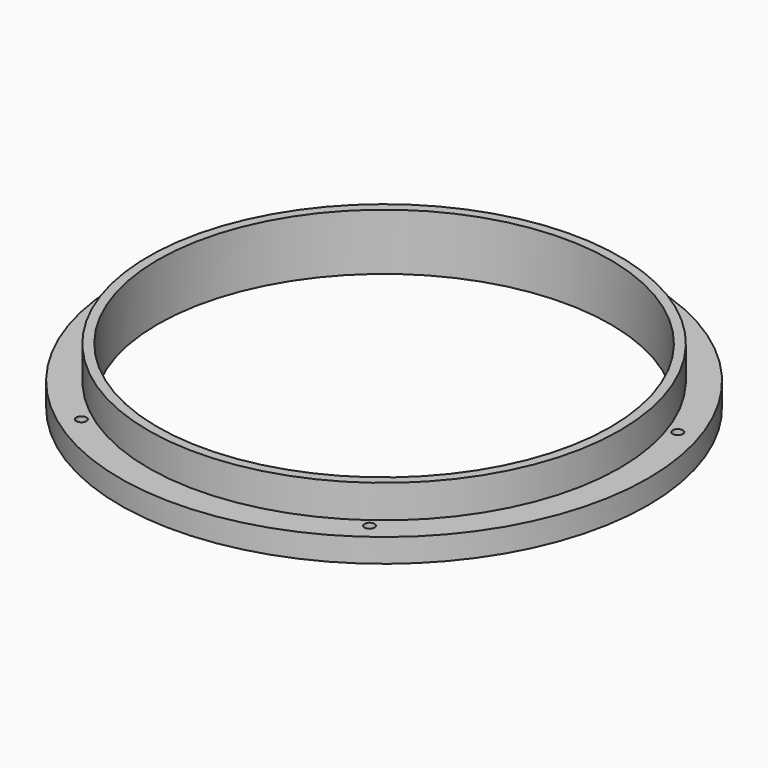
from build123d import *

# Parameters (mm, degrees)
F0_R     = 79.375
F0_R_2   = 76.2381
F0_R_3   = 88.9
F0_R_4   = 1.7272
F1_DEPTH = 7.9502
F2_DEPTH = 19.05


with BuildPart() as f1:
    # F0 (on Top) → F1 (new body)
    with BuildSketch(Plane.XY):
        Circle(F0_R)
        Circle(F0_R_2, mode=Mode.SUBTRACT)
        Circle(F0_R_3)
        with Locations((-48.521673, -66.784353)):
            Circle(F0_R_4, mode=Mode.SUBTRACT)
        with Locations((48.521673, -66.784353)):
            Circle(F0_R_4, mode=Mode.SUBTRACT)
        with Locations((-78.509715, 25.509353)):
            Circle(F0_R_4, mode=Mode.SUBTRACT)
        Circle(F0_R, mode=Mode.SUBTRACT)
        with Locations((78.509715, 25.509353)):
            Circle(F0_R_4, mode=Mode.SUBTRACT)
        with Locations((0, 82.55)):
            Circle(F0_R_4, mode=Mode.SUBTRACT)
    extrude(amount=F1_DEPTH)

    # F0 (on Top) → F2 (join)
    with BuildSketch(Plane.XY):
        Circle(F0_R)
        Circle(F0_R_2, mode=Mode.SUBTRACT)
    extrude(amount=F2_DEPTH)


solid = f1.part
